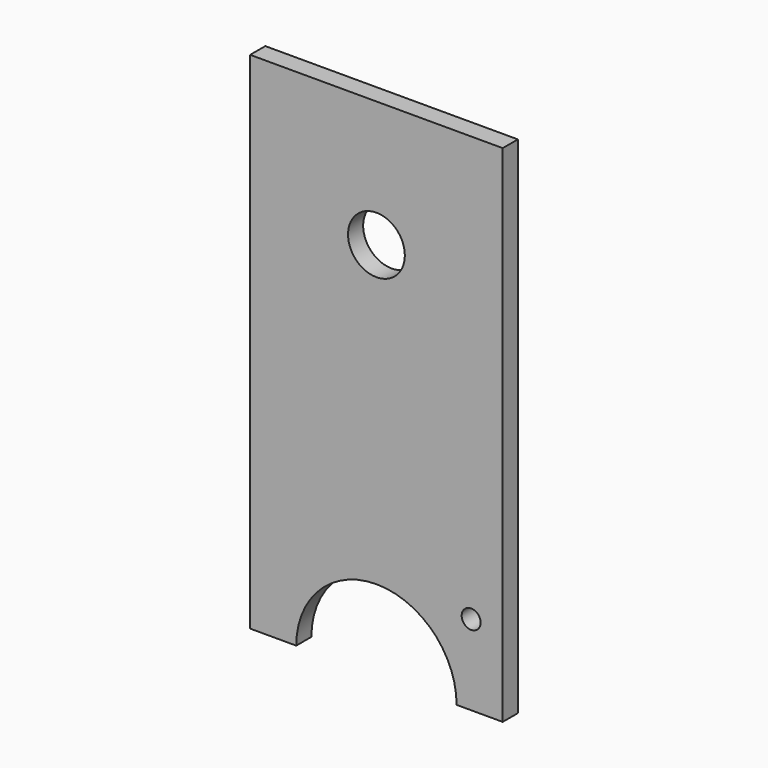
from build123d import *

# Parameters (mm, degrees)
F0_R     = 1.5
F0_R_2   = 4.5
F1_DEPTH = 3


with BuildPart() as f1:
    # F0 (on Front) → F1 (new body)
    with BuildSketch(Plane.XZ):
        with BuildLine():
            Line((20, 40), (-20, 40))
            Line((-20, 40), (-20, -40))
            Line((-20, -40), (-12.7, -40))
            ThreePointArc((-12.7, -40), (0, -27.3), (12.7, -40))
            Line((12.7, -40), (20, -40))
            Line((20, -40), (20, 40))
        make_face()
        with Locations((15, -27.3)):
            Circle(F0_R, mode=Mode.SUBTRACT)
        with Locations((0, 20)):
            Circle(F0_R_2, mode=Mode.SUBTRACT)
    extrude(amount=F1_DEPTH)


solid = f1.part
